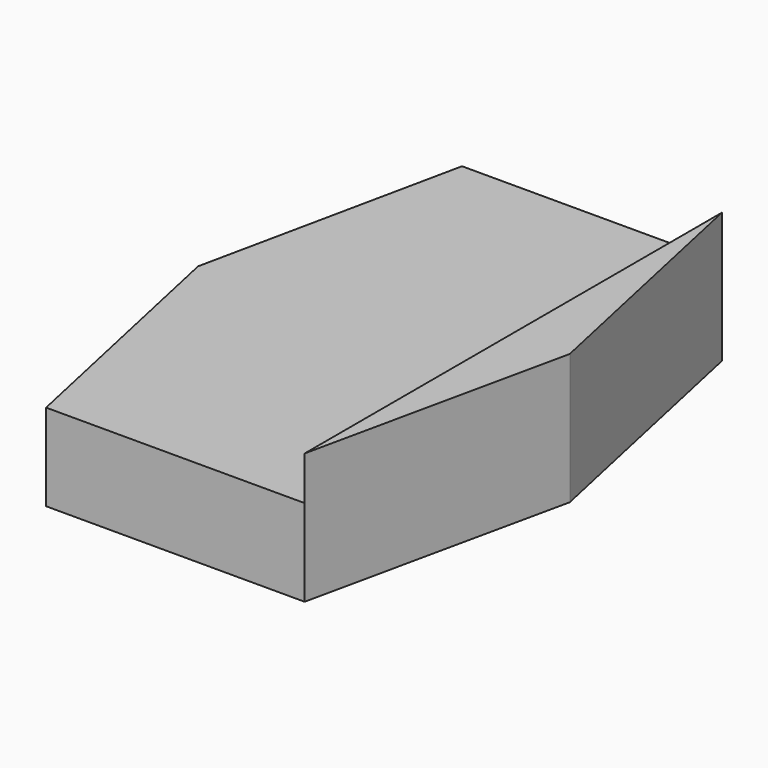
from build123d import *

# Parameters (mm, degrees)
F1_DEPTH = 25.4
F3_DEPTH = 12.780771


with BuildPart() as f1:
    # F0 (on Top) → F1 (new body)
    with BuildSketch(Plane.XY):
        Polygon((16.532764, 0), (0, 76.285757), (-75.997785, 76.285757), (-92.152342, 0), (-75.602874, -76.248273), (0, -76.248273), align=None)
    extrude(amount=F1_DEPTH)

    # F2 (on face) → F3 (join)
    with BuildSketch(Plane.XY.offset(25.4)):
        Polygon((0, 0), (0, -76.248273), (16.532764, 0), (0, 76.285757), align=None)
    extrude(amount=F3_DEPTH)


solid = f1.part
